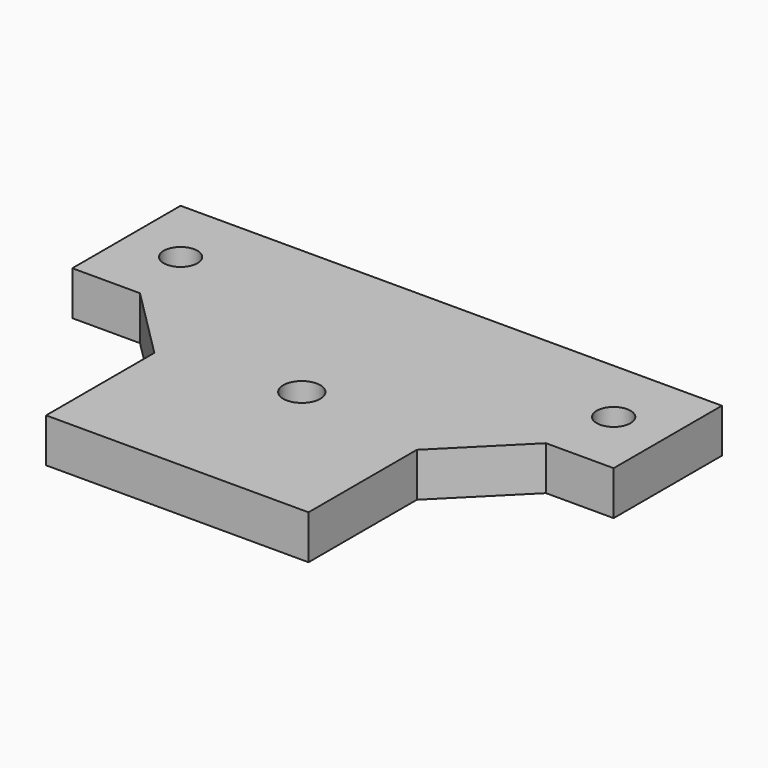
from build123d import *

# Parameters (mm, degrees)
F0_R     = 2.737036
F0_R_2   = 2.5
F1_DEPTH = 6.5


with BuildPart() as f1:
    # F0 (on Top) → F1 (new body)
    with BuildSketch(Plane.XY):
        Polygon((40, 0), (-40, 0), (-40, -20), (-30, -20), (-19.393398, -30.606602), (-19.393398, -50.606602), (19.393398, -50.606602), (19.393398, -30.606602), (30, -20), (40, -20), align=None)
        with Locations((0, -27.606602)):
            Circle(F0_R, mode=Mode.SUBTRACT)
        with Locations((-32, -10)):
            Circle(F0_R_2, mode=Mode.SUBTRACT)
        with Locations((32, -10)):
            Circle(F0_R_2, mode=Mode.SUBTRACT)
        Polygon((40, 0), (-40, 0), (-40, -20), (-30, -20), (-19.393398, -30.606602), (-19.393398, -50.606602), (19.393398, -50.606602), (19.393398, -30.606602), (30, -20), (40, -20), align=None)
        with Locations((0, -27.606602)):
            Circle(F0_R, mode=Mode.SUBTRACT)
        with Locations((-32, -10)):
            Circle(F0_R_2, mode=Mode.SUBTRACT)
        with Locations((32, -10)):
            Circle(F0_R_2, mode=Mode.SUBTRACT)
    extrude(amount=F1_DEPTH)


solid = f1.part
